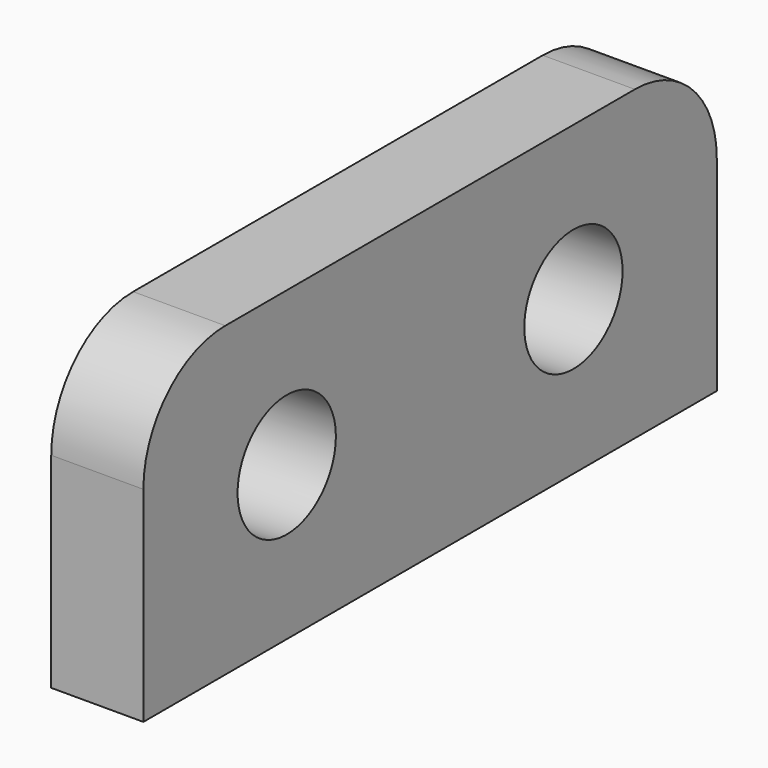
from build123d import *

# Parameters (mm, degrees)
F1_DEPTH = 9


with BuildPart() as f1:
    # F0 (on Right) → F1 (new body)
    with BuildSketch(Plane.YZ):
        with BuildLine():
            Line((0, 20), (0, 15))
            Line((0, 15), (11.5, 15))
            ThreePointArc((11.5, 15), (17.5, 21), (23.5, 15))
            Line((23.5, 15), (35, 15))
            Line((35, 15), (35, 30))
            Line((35, 30), (10, 30))
            ThreePointArc((10, 30), (2.928932, 27.071068), (0, 20))
        make_face()
        with BuildLine():
            Line((35, 30), (35, 15))
            Line((35, 15), (46.5, 15))
            ThreePointArc((46.5, 15), (52.5, 21), (58.5, 15))
            Line((58.5, 15), (70, 15))
            Line((70, 15), (70, 20))
            ThreePointArc((70, 20), (67.071068, 27.071068), (60, 30))
            Line((60, 30), (35, 30))
        make_face()
        with BuildLine():
            Line((0, 15), (0, 0))
            Line((0, 0), (35, 0))
            Line((35, 0), (35, 15))
            Line((35, 15), (23.5, 15))
            ThreePointArc((23.5, 15), (17.5, 9), (11.5, 15))
            Line((11.5, 15), (0, 15))
        make_face()
        with BuildLine():
            Line((35, 15), (35, 0))
            Line((35, 0), (70, 0))
            Line((70, 0), (70, 15))
            Line((70, 15), (58.5, 15))
            ThreePointArc((58.5, 15), (52.5, 9), (46.5, 15))
            Line((46.5, 15), (35, 15))
        make_face()
    extrude(amount=F1_DEPTH)


solid = f1.part
